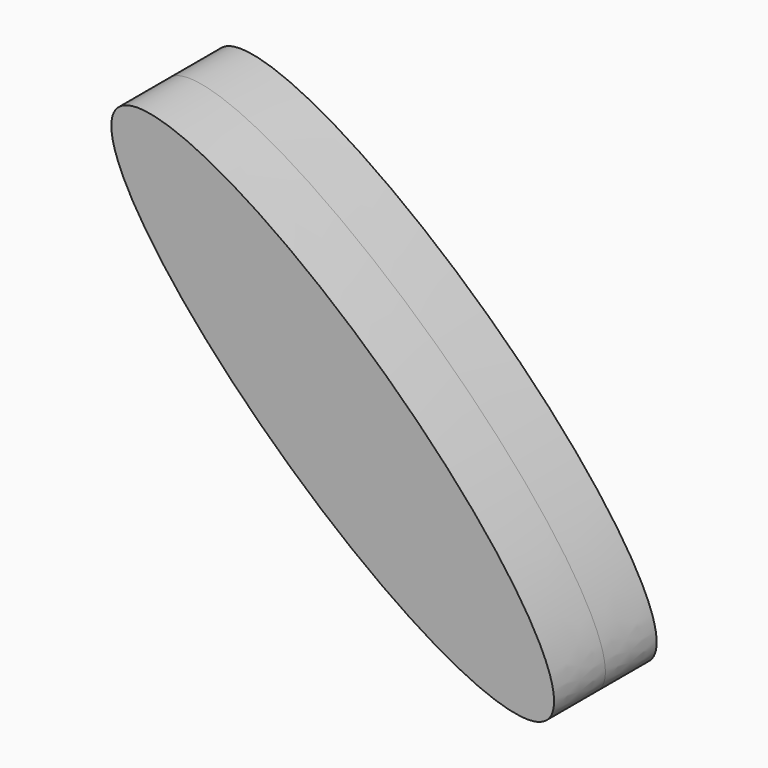
from build123d import *

# Parameters (mm, degrees)
F1_DEPTH = 12.5


with BuildPart() as f1:
    # F0 (on Front) → F1 (new body, symmetric)
    with BuildSketch(Plane.XZ):
        with BuildLine():
            add(Edge.make_bspline(
                [(22.223361, -15.215164), (39.041752, 3.044802), (-32.441215, 52.009086), (-103.924181, 100.97337), (-49.259606, 33.74912), (5.40497, -33.47513), (22.223361, -15.215164)],
                knots=[0, 0, 0, 2.094395, 2.094395, 4.18879, 4.18879, 6.283185, 6.283185, 6.283185], degree=2, weights=[1, 0.5, 1, 0.5, 1, 0.5, 1]))
        make_face()
    extrude(amount=F1_DEPTH, both=True)


solid = f1.part
